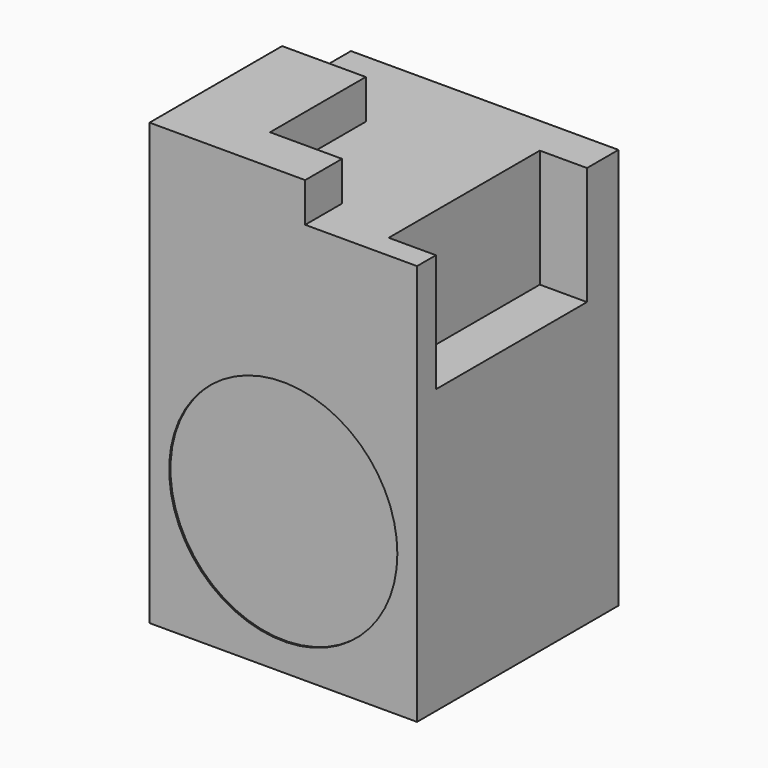
from build123d import *

# Parameters (mm, degrees)
F0_W     = 170
F0_H     = 255
F1_DEPTH = 160
F2_R     = 72.5
F3_DEPTH = 1
F4_W     = 120
F4_H     = 75
F5_DEPTH = 30
F7_DEPTH = 25


with BuildPart() as f1:
    # F0 (on Front) → F1 (new body)
    with BuildSketch(Plane.XZ):
        Rectangle(F0_W, F0_H)
    extrude(amount=F1_DEPTH)

    # F2 (on face) → F3 (cut)
    with BuildSketch(Plane.XZ.offset(160)):
        with Locations((0, -37.5)):
            Circle(F2_R)
    extrude(amount=-F3_DEPTH, mode=Mode.SUBTRACT)

    # F4 (on face) → F5 (cut)
    with BuildSketch(Plane.YZ.offset(85)):
        with Locations((-85, 90)):
            Rectangle(F4_W, F4_H)
    extrude(amount=-F5_DEPTH, mode=Mode.SUBTRACT)

    # F6 (on face) → F7 (join)
    with BuildSketch(Plane.XY.offset(127.5)):
        Polygon((-85, -130.726978), (-85, -160), (13.915417, -160), (13.915417, -130.726978), (-31.836193, -130.726978), (-31.836193, -54.676291), (-85, -54.676291), align=None)
    extrude(amount=F7_DEPTH)


solid = f1.part
